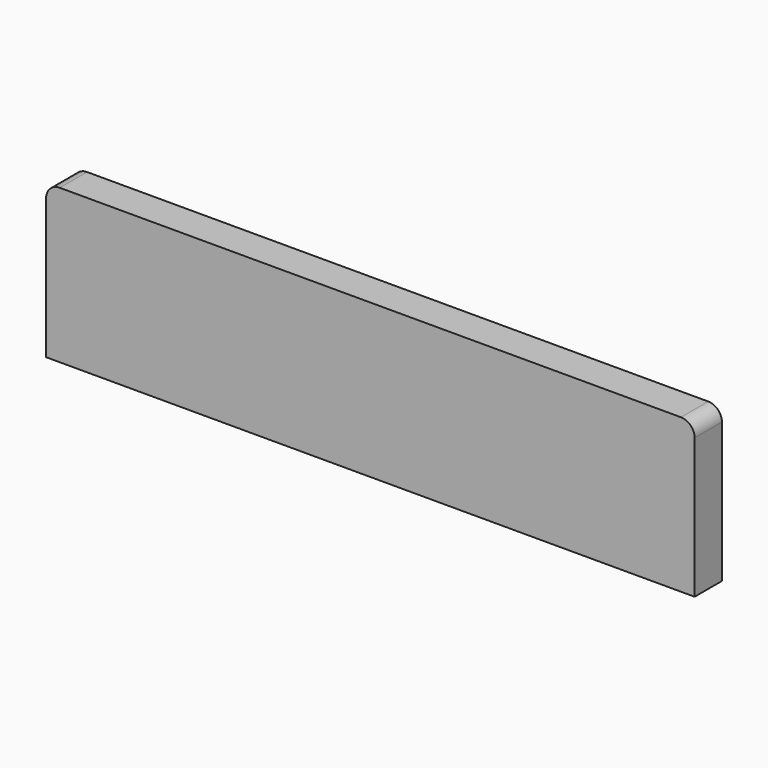
from build123d import *

# Parameters (mm, degrees)
F0_W     = 241.3
F0_H     = 57.15
F1_DEPTH = 12.7
F2_R     = 5.08


with BuildPart() as f1:
    # F0 (on Front) → F1 (new body)
    with BuildSketch(Plane.XZ):
        Rectangle(F0_W, F0_H)
    extrude(amount=F1_DEPTH)

    # F2
    f2_edges = [f1.edges().sort_by_distance(p)[0] for p in [
        (-120.65, -6.35, 28.575),
        (120.65, -6.35, 28.575),
    ]]
    fillet(f2_edges, radius=F2_R)


solid = f1.part
